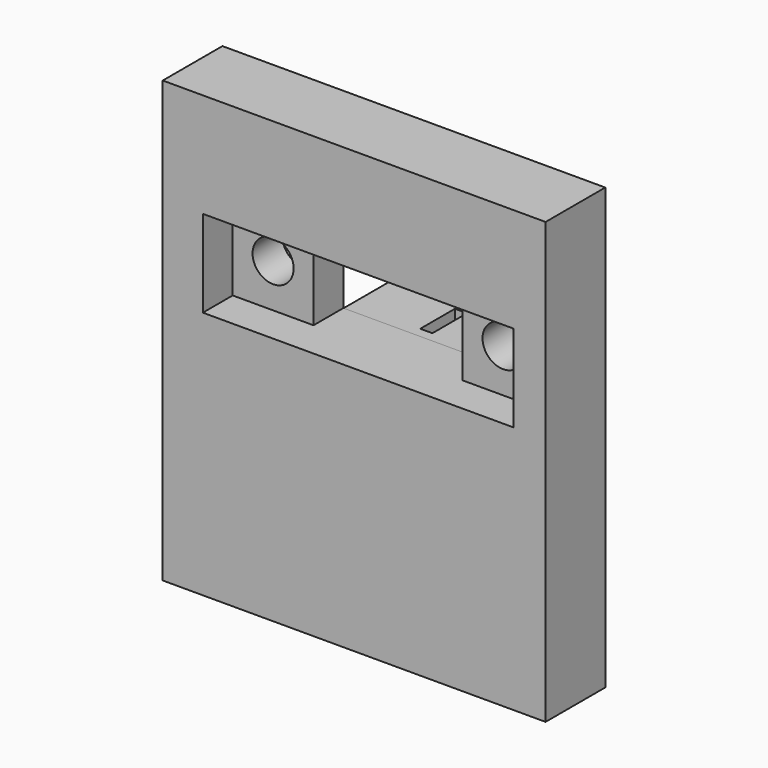
from build123d import *

# Parameters (mm, degrees)
F0_W     = 30.7991821319
F0_H     = 35.4098370299
F0_W_2   = 6.5
F0_H_2   = 7
F1_DEPTH = 6
F2_DEPTH = 3
F3_D     = 3.3
F4_W     = 12
F4_H     = 3
F5_DEPTH = 5.2
F6_W     = 0.9753258782
F6_H     = 3.4873990223
F7_DEPTH = 3
F9_D     = 3.3
F9_DEPTH = 5.2341906781


with BuildPart() as f1:
    # F0 (on Front) → F1 (new body)
    with BuildSketch(Plane.XZ):
        with Locations((-0.321273692, 7.8438320197)):
            Rectangle(F0_W, F0_H)
        Polygon((-12.4934045598, 17.1573571861), (-5.9934045598, 17.1573571861), (6.0065954402, 17.1573571861), (12.5065954402, 17.1573571861), (12.5065954402, 10.1573571861), (6.0065954402, 10.1573571861), (-5.9934045598, 10.1573571861), (-12.4934045598, 10.1573571861), align=None, mode=Mode.SUBTRACT)
        with Locations((-9.2434045598, 13.6573571861)):
            Rectangle(F0_W_2, F0_H_2)
        with Locations((9.2565954402, 13.6573571861)):
            Rectangle(F0_W_2, F0_H_2)
    extrude(amount=-F1_DEPTH)

    # F0 (on Front) → F2 (cut)
    with BuildSketch(Plane.XZ):
        with Locations((-9.2434045598, 13.6573571861)):
            Rectangle(F0_W_2, F0_H_2)
        with Locations((9.2565954402, 13.6573571861)):
            Rectangle(F0_W_2, F0_H_2)
    extrude(amount=-F2_DEPTH, mode=Mode.SUBTRACT)

    # F3 (through all)
    with Locations(Plane.XZ):
        with Locations((-9.2434045598, 13.6573571861), (9.2565954402, 13.6573571861)):
            Hole(F3_D / 2)

    # F4 (on face) → F5 (join)
    with BuildSketch(Plane(origin=(0, 6, 0), x_dir=(-1, 0, 0), z_dir=(0, 1, 0))):
        with Locations((-0.0065954402, -6.1278958172)):
            Rectangle(F4_W, F4_H)
        with Locations((-0.0065954402, 8.6368762217)):
            Rectangle(F4_W, F4_H)
    extrude(amount=F5_DEPTH)

    # F6 (on face) → F7 (cut, through all)
    with BuildSketch(Plane.XY.offset(10.1368762217)):
        with Locations((0, 8.5971419759)):
            Rectangle(F6_W, F6_H)
    extrude(amount=-F7_DEPTH, mode=Mode.SUBTRACT)

    # F9 (through all, one way)
    with BuildSketch(Plane.XY.offset(-4.6278958172)):
        with Locations((0.0065954402, 8.6)):
            Circle(F9_D / 2)
    extrude(amount=-F9_DEPTH, mode=Mode.SUBTRACT)


solid = f1.part
